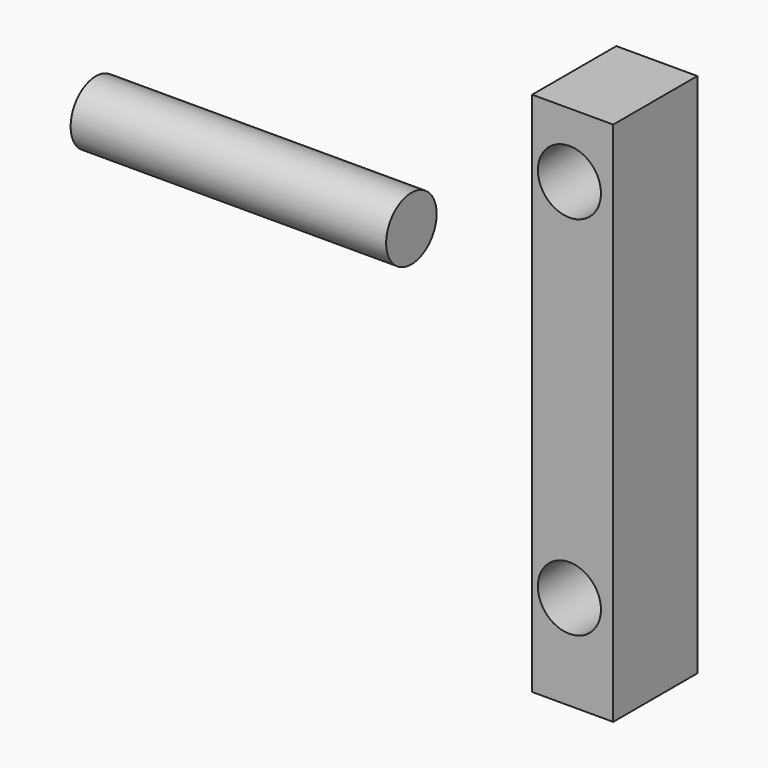
from build123d import *

# Parameters (mm, degrees)
F0_R     = 3.81
F1_DEPTH = 38.1
F2_W     = 9.785209
F2_H     = 63.5
F3_DEPTH = 12.7
F4_R     = 3.81
F5_DEPTH = 25.4


with BuildPart() as f1:
    # F0 (on Right) → F1 (new body)
    with BuildSketch(Plane.YZ):
        Circle(F0_R)
    extrude(amount=-F1_DEPTH)


with BuildPart() as f3:
    # F2 (on Front) → F3 (new body)
    with BuildSketch(Plane.XZ):
        with Locations((29.637735, -4.309282)):
            Rectangle(F2_W, F2_H)
    extrude(amount=F3_DEPTH)

    # F4 (on face) → F5 (cut)
    with BuildSketch(Plane.XZ.offset(12.7)):
        with Locations((29.242888, 19.643334)):
            Circle(F4_R)
        with Locations((29.242888, -24.604234)):
            Circle(F4_R)
    extrude(amount=-F5_DEPTH, mode=Mode.SUBTRACT)


solid = Compound([f1.part, f3.part])
